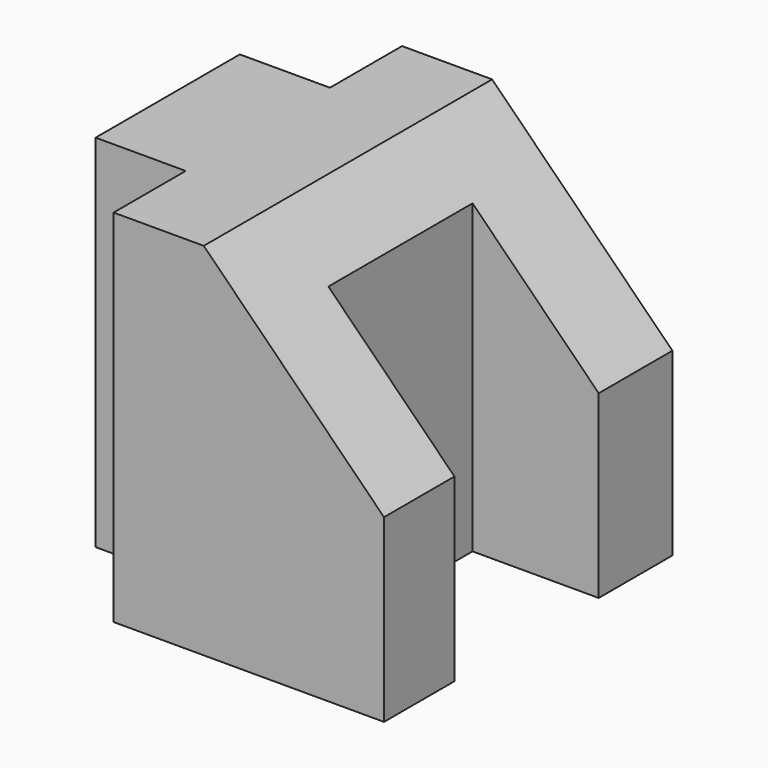
from build123d import *

# Parameters (mm, degrees)
F0_W     = 12.7
F0_H     = 50.8
F1_DEPTH = 12.7
F2_DEPTH = 12.7
F3_DEPTH = 25.4
F4_W     = 17.78
F4_H     = 25.4
F5_DEPTH = 50.801


with BuildPart() as f1:
    # F0 (on Front) → F1 (new body, symmetric)
    with BuildSketch(Plane.XZ):
        with Locations((6.35, 25.4)):
            Rectangle(F0_W, F0_H)
    extrude(amount=F1_DEPTH, both=True)

    # F0 (on Front) → F2 (join, symmetric)
    with BuildSketch(Plane.XZ):
        with Locations((6.35, 25.4)):
            Rectangle(F0_W, F0_H)
        Polygon((12.7, 50.8), (12.7, 0), (50.8, 0), (50.8, 25.4), (25.4, 50.8), align=None)
    extrude(amount=F2_DEPTH, both=True)

    # F0 (on Front) → F3 (join, symmetric)
    with BuildSketch(Plane.XZ):
        Polygon((12.7, 50.8), (12.7, 0), (50.8, 0), (50.8, 25.4), (25.4, 50.8), align=None)
    extrude(amount=F3_DEPTH, both=True)

    # F4 (on face) → F5 (cut, through all)
    with BuildSketch(Plane.XY.offset(50.8)):
        with Locations((41.91, -0.280305)):
            Rectangle(F4_W, F4_H)
    extrude(amount=-F5_DEPTH, mode=Mode.SUBTRACT)


solid = f1.part
